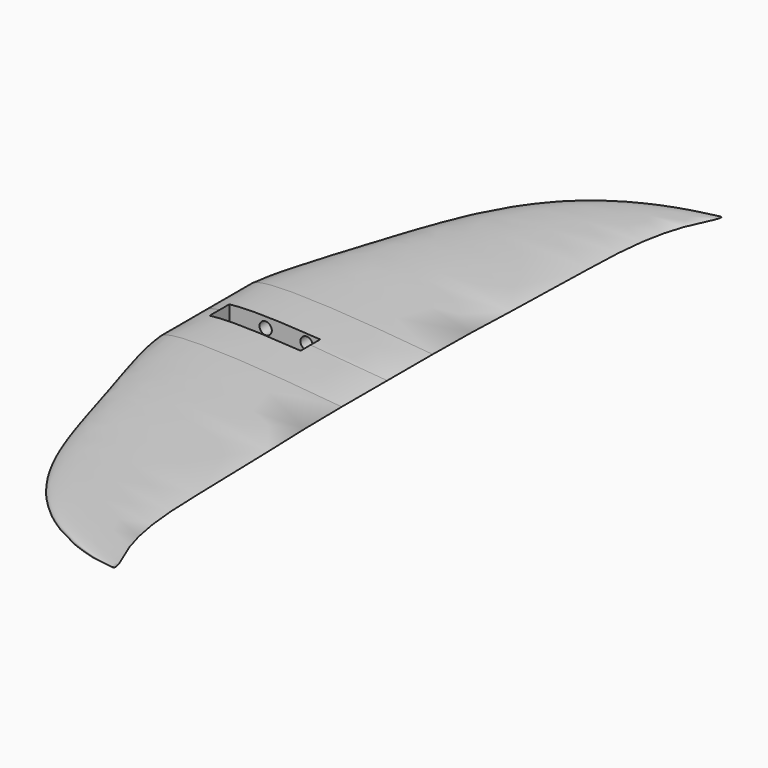
from build123d import *

# Parameters (mm, degrees)
CYLINDER058_R                     = 3.429
CYLINDER058_DEPTH                 = 257.175
CYLINDER057_R                     = 3.429
CYLINDER057_DEPTH                 = 206.375
SKETCH086_W                       = 13.716
SKETCH086_H                       = 13.716
PAD043_DEPTH                      = 50.8
CHAMFER003_SIZE2                  = 2.032
CHAMFER003_SIZE                   = 8.89
CHAMFER004_SIZE2                  = 1.016
CHAMFER004_SIZE                   = 5.08
BODY058_PLACEMENT_ANGLE           = 90
CYLINDER059_R                     = 1.778
CYLINDER059_DEPTH                 = 355.6
PART_MIRRORING002_PLACEMENT_ANGLE = 180
FUSION016_PLACEMENT_ANGLE         = 179
CLONE003_SCALE_SCALE              = 0.5
CLONE003_PLACEMENT_ANGLE          = 4


with BuildPart() as cylinder058:
    # Cylinder058 → Cylinder058 (new body)
    with BuildSketch(Plane(origin=(182.88, -128.5875, 906.272), x_dir=(1, 0, 0), z_dir=(0, 1, 0))):
        Circle(CYLINDER058_R)
    extrude(amount=CYLINDER058_DEPTH)


with BuildPart() as cylinder057:
    # Cylinder057 → Cylinder057 (new body)
    with BuildSketch(Plane(origin=(160.02, -103.1875, 906.276), x_dir=(1, 0, 0), z_dir=(0, 1, 0))):
        Circle(CYLINDER057_R)
    extrude(amount=CYLINDER057_DEPTH)


with BuildPart() as body058:
    # Sketch086 → Pad043 (new body)
    with BuildSketch(Plane.XZ):
        with Locations((6.858, -6.858)):
            Rectangle(SKETCH086_W, SKETCH086_H)
    extrude(amount=PAD043_DEPTH)

    # Chamfer003
    chamfer003_edges = [body058.edges().sort_by_distance(p)[0] for p in [
        (6.858, 0, -13.716),
    ]]
    chamfer003_side = body058.faces().sort_by_distance((6.858, -25.4, -13.716))[0]
    chamfer(chamfer003_edges, length=CHAMFER003_SIZE, length2=CHAMFER003_SIZE2, reference=chamfer003_side)

    # Chamfer004
    chamfer004_edges = [body058.edges().sort_by_distance(p)[0] for p in [
        (6.858, -50.8, -13.716),
    ]]
    chamfer004_side = body058.faces().sort_by_distance((6.858, -29.845, -13.716))[0]
    chamfer(chamfer004_edges, length=CHAMFER004_SIZE, length2=CHAMFER004_SIZE2, reference=chamfer004_side)


with BuildPart() as body058_1:
    # Body058 placement: moved
    add(body058.part.moved(Location((139.7, -6.858, 914.908))).rotate(Axis((139.7, -6.858, 914.908), (0, 0, 1)), BODY058_PLACEMENT_ANGLE))


with BuildPart() as back_wing_sub:
    # Cylinder059 → Cylinder059 (new body)
    with BuildSketch(Plane(origin=(201.422, -177.8, 905.256), x_dir=(1, 0, 0), z_dir=(0, 1, 0))):
        Circle(CYLINDER059_R)
    extrude(amount=CYLINDER059_DEPTH)

    # Fusion017: union Cylinder058, Cylinder057, Body058
    add(cylinder058.part)
    add(cylinder057.part)
    add(body058_1.part)


with BuildPart() as back_wing_sub_1:
    # Fusion017 placement: moved
    add(back_wing_sub.part.moved(Location((-353.2632, 0, -433.4256))))


with BuildPart() as additiveloft008:
    # Sketch076 → AdditiveLoft007 section 0
    with BuildSketch(Plane(origin=(-95.25, 284.48, 0), x_dir=(0.990099, 0.099504, 0.09901), z_dir=(0.09901, -0.995037, 0.009901))):
        with BuildLine():
            add(Edge.make_bspline(
                [(-0.642491, 0.016306), (0.942151, 0.395123), (1.968355, 0.0803), (1.082123, -0.056559), (-0.642491, 0.016306)],
                knots=[0, 0, 0, 0, 0.5, 1, 1, 1, 1], degree=3))
        make_face()
    # Sketch077 → AdditiveLoft007 section 1
    with BuildSketch(Plane(origin=(-88.9, 279.4, 0), x_dir=(0.996413, 0.059892, 0.059785), z_dir=(0.059785, -0.998205, 0.003587))):
        with BuildLine():
            add(Edge.make_bspline(
                [(-6.424909, 0.163064), (9.421511, 3.951227), (19.683554, 0.802995), (10.821227, -0.565587), (-6.424909, 0.163064)],
                knots=[0, 0, 0, 0, 0.5, 1, 1, 1, 1], degree=3))
        make_face()
    # Sketch078 → AdditiveLoft007 section 2
    with BuildSketch(Plane(origin=(-63.5, 254, 0), x_dir=(0.998403, 0.039968, 0.039936), z_dir=(0.039936, -0.999201, 0.001597))):
        with BuildLine():
            add(Edge.make_bspline(
                [(-21.416362, 0.543546), (31.405036, 13.170757), (65.611848, 2.67665), (36.070756, -1.885291), (-21.416362, 0.543546)],
                knots=[0, 0, 0, 0, 0.5, 1, 1, 1, 1], degree=3))
        make_face()
    # Sketch079 → AdditiveLoft007 section 3
    with BuildSketch(Plane(origin=(-25.4, 152.4, 0), x_dir=(0.9996, 0.019996, 0.019992), z_dir=(0.019992, -0.9998, 0.0004))):
        with BuildLine():
            add(Edge.make_bspline(
                [(-42.832724, 1.087092), (62.810073, 26.341514), (131.223696, 5.3533), (72.141512, -3.770583), (-42.832724, 1.087092)],
                knots=[0, 0, 0, 0, 0.5, 1, 1, 1, 1], degree=3))
        make_face()
    # Sketch081 → AdditiveLoft007 section 4
    with BuildSketch(Plane(origin=(-12.7, 50.8, 0), x_dir=(1, 0, 0), z_dir=(0, 1, 0))):
        with BuildLine():
            add(Edge.make_bspline(
                [(-52.011165, -1.32004), (76.269374, -31.986124), (159.34306, -6.500436), (87.600408, 4.578565), (-52.011165, -1.32004)],
                knots=[0, 0, 0, 0, 0.5, 1, 1, 1, 1], degree=3))
        make_face()
    # Sketch082 → AdditiveLoft007 section 5
    with BuildSketch(Plane(origin=(-3.81, -25.4, 0), x_dir=(1, 0, 0), z_dir=(0, 1, 0))):
        with BuildLine():
            add(Edge.make_bspline(
                [(-58.130126, -1.475339), (85.242241, -35.749197), (178.089302, -7.265193), (97.906338, 5.11722), (-58.130126, -1.475339)],
                knots=[0, 0, 0, 0, 0.5, 1, 1, 1, 1], degree=3))
        make_face()
    # Sketch080 → AdditiveLoft007 section 6
    with BuildSketch(Plane.XZ.offset(76.2)):
        with BuildLine():
            add(Edge.make_bspline(
                [(-61.189606, 1.552988), (89.728675, 37.630734), (187.462423, 7.647572), (103.059303, -5.386547), (-61.189606, 1.552988)],
                knots=[0, 0, 0, 0, 0.5, 1, 1, 1, 1], degree=3))
        make_face()
    loft()

    # Sketch080 → AdditiveLoft008 section 0
    with BuildSketch(Plane.XZ.offset(76.2)):
        with BuildLine():
            add(Edge.make_bspline(
                [(-61.189606, 1.552988), (89.728675, 37.630734), (187.462423, 7.647572), (103.059303, -5.386547), (-61.189606, 1.552988)],
                knots=[0, 0, 0, 0, 0.5, 1, 1, 1, 1], degree=3))
        make_face()
    # Sketch083 → AdditiveLoft008 section 1
    with BuildSketch(Plane(origin=(0, -139.7, 0), x_dir=(1, 0, 0), z_dir=(0, 1, 0))):
        with BuildLine():
            add(Edge.make_bspline(
                [(-61.189606, -1.552988), (89.728675, -37.630734), (187.462423, -7.647572), (103.059303, 5.386547), (-61.189606, -1.552988)],
                knots=[0, 0, 0, 0, 0.5, 1, 1, 1, 1], degree=3))
        make_face()
    loft()


with BuildPart() as part_mirroring002:
    # Part__Mirroring002: instance of AdditiveLoft008
    add(additiveloft008.part.mirror(Plane(origin=(0, 0, 0), x_dir=(0, 1, 0), z_dir=(0, 0, 1))))


with BuildPart() as part_mirroring002_1:
    # Part__Mirroring002 placement: moved
    add(part_mirroring002.part.moved(Location((0, -279.4, 0))).rotate(Axis((0, -279.4, 0), (1, 0, 0)), PART_MIRRORING002_PLACEMENT_ANGLE))


with BuildPart() as backwinghollow:
    # AdditiveLoft009 base: copy of AdditiveLoft008
    add(additiveloft008.part)

    # Sketch084 → AdditiveLoft009 section 0
    with BuildSketch(Plane.XZ.offset(76.2)):
        with BuildLine():
            add(Edge.make_bspline(
                [(-61.189606, 1.552988), (89.728675, 37.630734), (187.462423, 7.647572), (103.059303, -5.386547), (-61.189606, 1.552988)],
                knots=[0, 0, 0, 0, 0.5, 1, 1, 1, 1], degree=3))
        make_face()
    # Sketch085 → AdditiveLoft009 section 1
    with BuildSketch(Plane(origin=(0, -139.7, 0), x_dir=(1, 0, 0), z_dir=(0, 1, 0))):
        with BuildLine():
            add(Edge.make_bspline(
                [(-61.189606, -1.552988), (89.728675, -37.630734), (187.462423, -7.647572), (103.059303, 5.386547), (-61.189606, -1.552988)],
                knots=[0, 0, 0, 0, 0.5, 1, 1, 1, 1], degree=3))
        make_face()
    loft()

    # Fusion016: union Part__Mirroring002
    add(part_mirroring002_1.part)


with BuildPart() as backwinghollow_1:
    # Fusion016 placement: moved
    add(backwinghollow.part.moved(Location((-297.784486, 139.892, 951.535781))).rotate(Axis((-297.784486, 139.892, 951.535781), (0, 1, 0)), FUSION016_PLACEMENT_ANGLE))


with BuildPart() as backwinghollow_2:
    # Clone003 scale: moved
    add(backwinghollow_1.part.scale(CLONE003_SCALE_SCALE).moved(Location((-148.892243, 69.946, 475.767891))))


with BuildPart() as backwinghollow_3:
    # Clone003 placement: moved
    add(backwinghollow_2.part.moved(Location((80.255761, -69.946, -493.913017))).rotate(Axis((80.255761, -69.946, -493.913017), (0, 1, 0)), CLONE003_PLACEMENT_ANGLE))

    # Cut028: cut Back Wing Sub
    add(back_wing_sub_1.part, mode=Mode.SUBTRACT)


solid = backwinghollow_3.part
